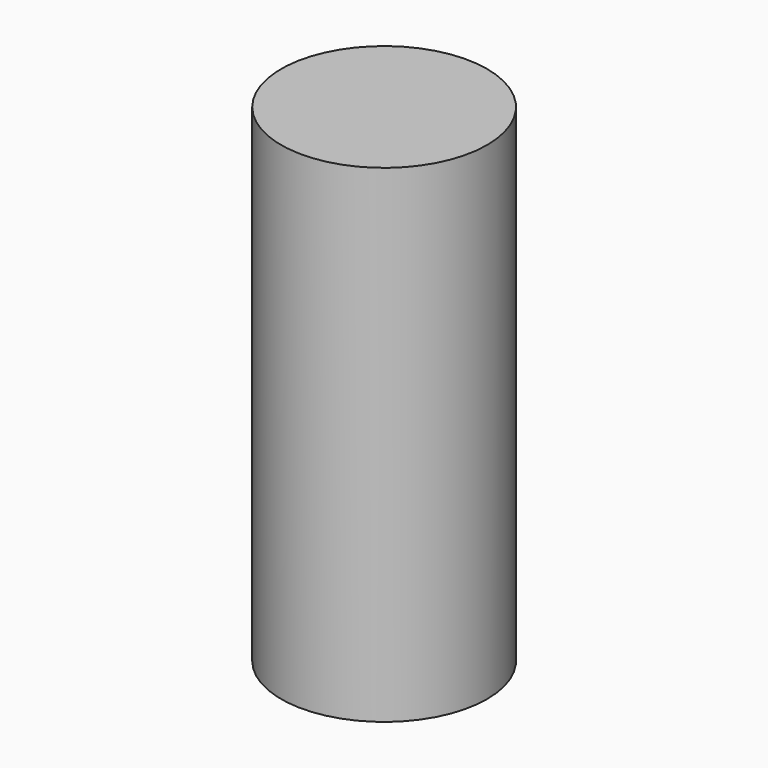
from build123d import *

# Parameters (mm, degrees)
F0_R     = 215.9
F0_R_2   = 206.375
F1_DEPTH = 457.2
F2_DEPTH = 1016
F3_R     = 215.9
F4_DEPTH = 6.35


with BuildPart() as f1:
    # F0 (on Top) → F1 (new body)
    with BuildSketch(Plane.XY):
        Circle(F0_R)
        Circle(F0_R_2, mode=Mode.SUBTRACT)
    extrude(amount=F1_DEPTH)

    # F0 (on Top) → F2 (join)
    with BuildSketch(Plane.XY):
        Circle(F0_R)
        Circle(F0_R_2, mode=Mode.SUBTRACT)
    extrude(amount=F2_DEPTH)

    # F3 (on face) → F4 (join)
    with BuildSketch(Plane.XY.offset(1016)):
        Circle(F3_R)
    extrude(amount=F4_DEPTH)


solid = f1.part
